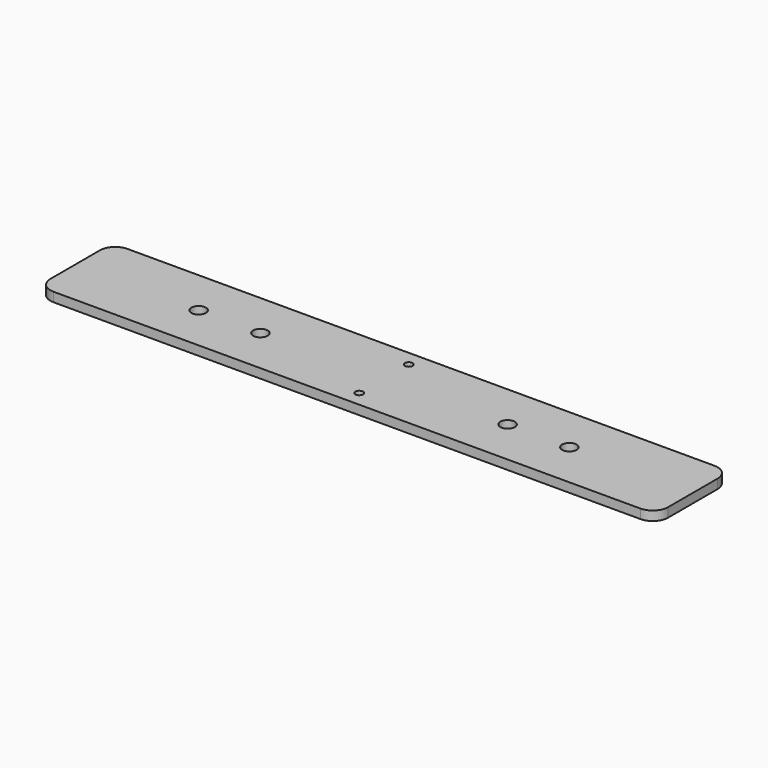
from build123d import *

# Parameters (mm, degrees)
F0_R     = 1.25
F0_R_2   = 2.35
F1_DEPTH = 3


with BuildPart() as f1:
    # F0 (on Top) → F1 (new body)
    with BuildSketch(Plane.XY):
        with BuildLine():
            Line((-95, -15), (95, -15))
            ThreePointArc((95, -15), (98.535534, -13.535534), (100, -10))
            Line((100, -10), (100, 10))
            ThreePointArc((100, 10), (98.535534, 13.535534), (95, 15))
            Line((95, 15), (-95, 15))
            ThreePointArc((-95, 15), (-98.535534, 13.535534), (-100, 10))
            Line((-100, 10), (-100, -10))
            ThreePointArc((-100, -10), (-98.535534, -13.535534), (-95, -15))
        make_face()
        with Locations((0, -10)):
            Circle(F0_R, mode=Mode.SUBTRACT)
        with Locations((-60, 0)):
            Circle(F0_R_2, mode=Mode.SUBTRACT)
        with Locations((-40, 0)):
            Circle(F0_R_2, mode=Mode.SUBTRACT)
        with Locations((40, 0)):
            Circle(F0_R_2, mode=Mode.SUBTRACT)
        with Locations((60, 0)):
            Circle(F0_R_2, mode=Mode.SUBTRACT)
        with Locations((0, 10)):
            Circle(F0_R, mode=Mode.SUBTRACT)
    extrude(amount=F1_DEPTH)


solid = f1.part
